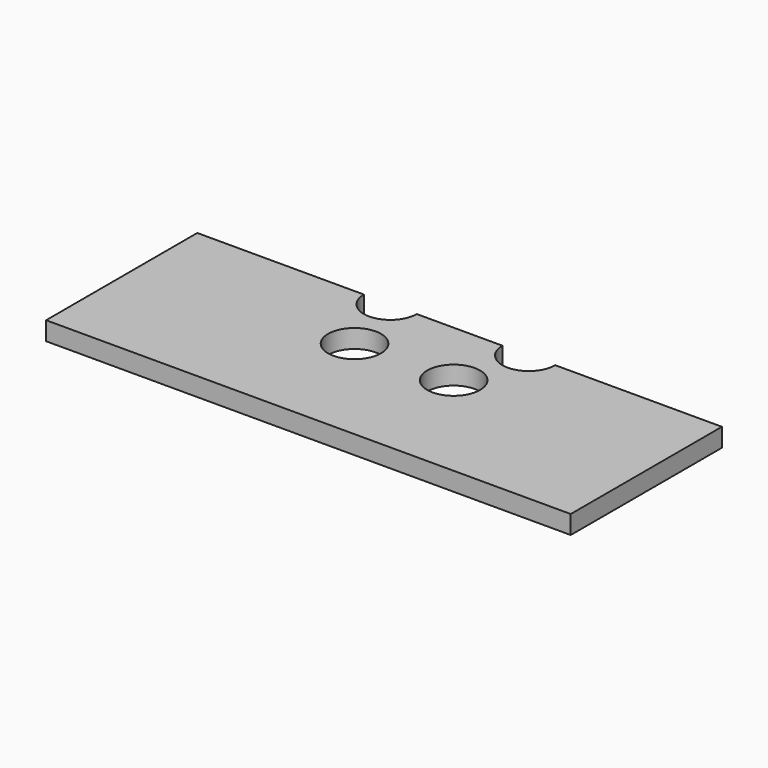
from build123d import *

# Parameters (mm, degrees)
F0_R     = 5.08
F1_DEPTH = 3.556


with BuildPart() as f1:
    # F0 (on Top) → F1 (new body)
    with BuildSketch(Plane.XY):
        with BuildLine():
            Line((0, 36.322), (0, 0))
            Line((0, 0), (100.838, 0))
            Line((100.838, 0), (100.838, 36.322))
            Line((100.838, 36.322), (68.8086, 36.322))
            ThreePointArc((68.8086, 36.322), (63.7286, 31.242), (58.6486, 36.322))
            Line((58.6486, 36.322), (42.1894, 36.322))
            ThreePointArc((42.1894, 36.322), (37.1094, 31.242), (32.0294, 36.322))
            Line((32.0294, 36.322), (0, 36.322))
        make_face()
        with Locations((40.894, 22.987)):
            Circle(F0_R, mode=Mode.SUBTRACT)
        with Locations((59.944, 22.987)):
            Circle(F0_R, mode=Mode.SUBTRACT)
    extrude(amount=F1_DEPTH)


solid = f1.part
